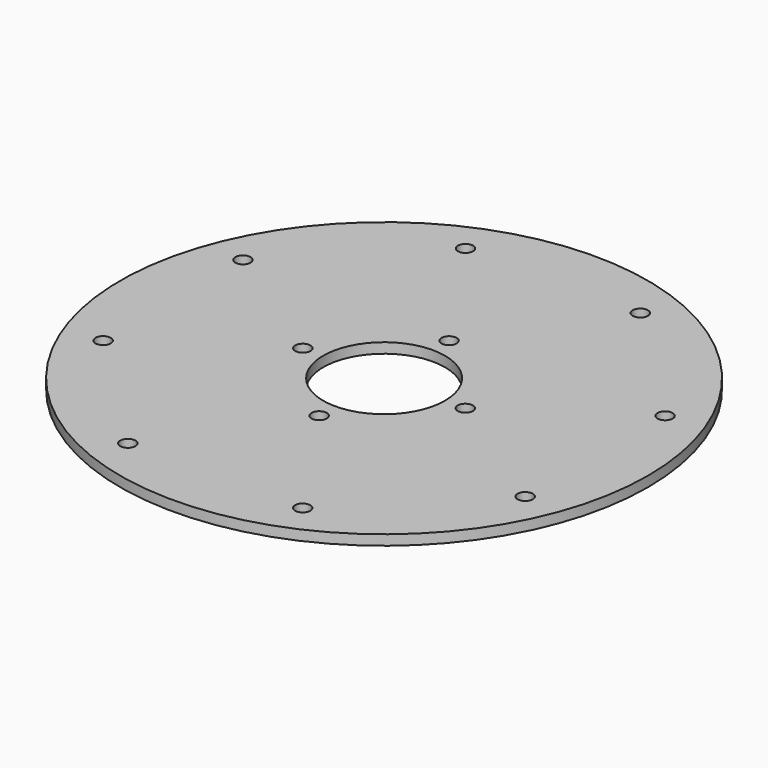
from build123d import *

# Parameters (mm, degrees)
CYLINDER623_R               = 1.5
CYLINDER623_DEPTH           = 20
CYLINDER623_PLACEMENT_ANGLE = 45
CYLINDER632_R               = 1.5
CYLINDER632_DEPTH           = 20
CYLINDER629_R               = 1.5
CYLINDER629_DEPTH           = 20
CYLINDER629_PLACEMENT_ANGLE = 135
CYLINDER639_R               = 1.5
CYLINDER639_DEPTH           = 20
CYLINDER638_R               = 1.5
CYLINDER638_DEPTH           = 20
CYLINDER638_PLACEMENT_ANGLE = 225
CYLINDER631_R               = 1.5
CYLINDER631_DEPTH           = 20
CYLINDER633_R               = 1.5
CYLINDER633_DEPTH           = 20
CYLINDER633_PLACEMENT_ANGLE = 45
CYLINDER628_R               = 1.5
CYLINDER628_DEPTH           = 20
COMPOUND654_PLACEMENT_ANGLE = 22.5
CYLINDER625_R               = 1.5
CYLINDER625_DEPTH           = 16
CYLINDER625_PLACEMENT_ANGLE = 67.5
CYLINDER626_R               = 1.5
CYLINDER626_DEPTH           = 16
CYLINDER626_PLACEMENT_ANGLE = 22.5
CYLINDER627_R               = 1.5
CYLINDER627_DEPTH           = 16
CYLINDER627_PLACEMENT_ANGLE = 112.5
CYLINDER630_R               = 1.5
CYLINDER630_DEPTH           = 16
CYLINDER630_PLACEMENT_ANGLE = 202.5
TUBE038_R                   = 52
TUBE038_R_2                 = 12
TUBE038_DEPTH               = 2


with BuildPart() as obj1:
    # Cylinder623 → Cylinder623 (new body)
    with BuildSketch(Plane.XY):
        Circle(CYLINDER623_R)
    extrude(amount=CYLINDER623_DEPTH)


with BuildPart() as obj1_1:
    # Cylinder623 placement: moved
    add(obj1.part.moved(Location((-31.819805, 31.819805, -18))).rotate(Axis((-31.819805, 31.819805, -18), (0, 0, 1)), CYLINDER623_PLACEMENT_ANGLE))


with BuildPart() as obj2:
    # Cylinder632 → Cylinder632 (new body)
    with BuildSketch(Plane(origin=(-45, 0, -18), x_dir=(0, 1, 0), z_dir=(0, 0, 1))):
        Circle(CYLINDER632_R)
    extrude(amount=CYLINDER632_DEPTH)


with BuildPart() as obj3:
    # Cylinder629 → Cylinder629 (new body)
    with BuildSketch(Plane.XY):
        Circle(CYLINDER629_R)
    extrude(amount=CYLINDER629_DEPTH)


with BuildPart() as obj3_1:
    # Cylinder629 placement: moved
    add(obj3.part.moved(Location((-31.819805, -31.819805, -18))).rotate(Axis((-31.819805, -31.819805, -18), (0, 0, 1)), CYLINDER629_PLACEMENT_ANGLE))


with BuildPart() as obj4:
    # Cylinder639 → Cylinder639 (new body)
    with BuildSketch(Plane(origin=(0, -45, -18), x_dir=(-1, 0, 0), z_dir=(0, 0, 1))):
        Circle(CYLINDER639_R)
    extrude(amount=CYLINDER639_DEPTH)


with BuildPart() as obj5:
    # Cylinder638 → Cylinder638 (new body)
    with BuildSketch(Plane.XY):
        Circle(CYLINDER638_R)
    extrude(amount=CYLINDER638_DEPTH)


with BuildPart() as obj5_1:
    # Cylinder638 placement: moved
    add(obj5.part.moved(Location((31.819805, -31.819805, -18))).rotate(Axis((31.819805, -31.819805, -18), (0, 0, 1)), CYLINDER638_PLACEMENT_ANGLE))


with BuildPart() as obj6:
    # Cylinder631 → Cylinder631 (new body)
    with BuildSketch(Plane(origin=(45, 0, -18), x_dir=(0, -1, 0), z_dir=(0, 0, 1))):
        Circle(CYLINDER631_R)
    extrude(amount=CYLINDER631_DEPTH)


with BuildPart() as obj7:
    # Cylinder633 → Cylinder633 (new body)
    with BuildSketch(Plane.XY):
        Circle(CYLINDER633_R)
    extrude(amount=CYLINDER633_DEPTH)


with BuildPart() as obj7_1:
    # Cylinder633 placement: moved
    add(obj7.part.moved(Location((31.819805, 31.819805, -18))).rotate(Axis((31.819805, 31.819805, -18), (0, 0, -1)), CYLINDER633_PLACEMENT_ANGLE))


with BuildPart() as compound654:
    # Cylinder628 → Cylinder628 (new body)
    with BuildSketch(Plane(origin=(0, 45, -18), x_dir=(1, 0, 0), z_dir=(0, 0, 1))):
        Circle(CYLINDER628_R)
    extrude(amount=CYLINDER628_DEPTH)

    # Compound654: union obj1, obj2, obj3, obj4, obj5, obj6, obj7
    add(obj1_1.part)
    add(obj2.part)
    add(obj3_1.part)
    add(obj4.part)
    add(obj5_1.part)
    add(obj6.part)
    add(obj7_1.part)


with BuildPart() as compound654_1:
    # Compound654 placement: moved
    add(compound654.part.moved(Location((0, 0, -87))).rotate(Axis((0, 0, -87), (0, 0, 1)), COMPOUND654_PLACEMENT_ANGLE))


with BuildPart() as obj8:
    # Cylinder625 → Cylinder625 (new body)
    with BuildSketch(Plane.XY):
        Circle(CYLINDER625_R)
    extrude(amount=CYLINDER625_DEPTH)


with BuildPart() as obj8_1:
    # Cylinder625 placement: moved
    add(obj8.part.moved(Location((0, 16, 2))).rotate(Axis((0, 16, 2), (0, 0, -1)), CYLINDER625_PLACEMENT_ANGLE))


with BuildPart() as obj9:
    # Cylinder626 → Cylinder626 (new body)
    with BuildSketch(Plane.XY):
        Circle(CYLINDER626_R)
    extrude(amount=CYLINDER626_DEPTH)


with BuildPart() as obj9_1:
    # Cylinder626 placement: moved
    add(obj9.part.moved(Location((-16, 0, 2))).rotate(Axis((-16, 0, 2), (0, 0, 1)), CYLINDER626_PLACEMENT_ANGLE))


with BuildPart() as obj10:
    # Cylinder627 → Cylinder627 (new body)
    with BuildSketch(Plane.XY):
        Circle(CYLINDER627_R)
    extrude(amount=CYLINDER627_DEPTH)


with BuildPart() as obj10_1:
    # Cylinder627 placement: moved
    add(obj10.part.moved(Location((0, -16, 2))).rotate(Axis((0, -16, 2), (0, 0, 1)), CYLINDER627_PLACEMENT_ANGLE))


with BuildPart() as compound653:
    # Cylinder630 → Cylinder630 (new body)
    with BuildSketch(Plane.XY):
        Circle(CYLINDER630_R)
    extrude(amount=CYLINDER630_DEPTH)


with BuildPart() as compound653_1:
    # Cylinder630 placement: moved
    add(compound653.part.moved(Location((16, 0, 2))).rotate(Axis((16, 0, 2), (0, 0, 1)), CYLINDER630_PLACEMENT_ANGLE))

    # Compound653: union obj8, obj9, obj10
    add(obj8_1.part)
    add(obj9_1.part)
    add(obj10_1.part)


with BuildPart() as compound653_2:
    # Compound653 placement: moved
    add(compound653_1.part.moved(Location((0, 0, -111))))


with BuildPart() as cut287:
    # Tube038 → Tube038 (new body)
    with BuildSketch(Plane.XY.offset(-100)):
        Circle(TUBE038_R)
        Circle(TUBE038_R_2, mode=Mode.SUBTRACT)
    extrude(amount=TUBE038_DEPTH)

    # Cut285: cut Compound653
    add(compound653_2.part, mode=Mode.SUBTRACT)

    # Cut287: cut Compound654
    add(compound654_1.part, mode=Mode.SUBTRACT)


solid = cut287.part
